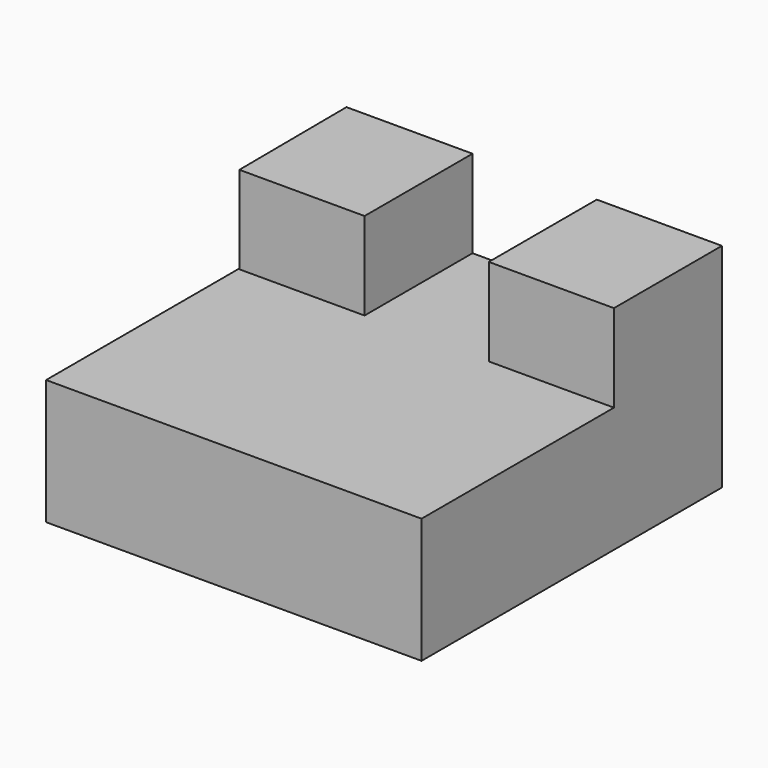
from build123d import *

# Parameters (mm, degrees)
F0_W     = 76.2
F0_H     = 25.4
F1_DEPTH = 76.2
F3_DEPTH = 17.78
F4_W     = 25.4
F4_H     = 27.392207
F5_DEPTH = 17.78


with BuildPart() as f1:
    # F0 (on Front) → F1 (new body)
    with BuildSketch(Plane.XZ):
        with Locations((-16.55913, -10.933881)):
            Rectangle(F0_W, F0_H)
    extrude(amount=F1_DEPTH)

    # F2 (on face) → F3 (join)
    with BuildSketch(Plane.XY.offset(1.766119)):
        Polygon((-54.65913, 0), (-54.474894, -27.392207), (-29.074894, -27.392207), (-29.074894, 0), align=None)
    extrude(amount=F3_DEPTH)

    # F4 (on face) → F5 (join)
    with BuildSketch(Plane.XY.offset(1.766119)):
        with Locations((8.84087, -13.696103)):
            Rectangle(F4_W, F4_H)
    extrude(amount=F5_DEPTH)


solid = f1.part
